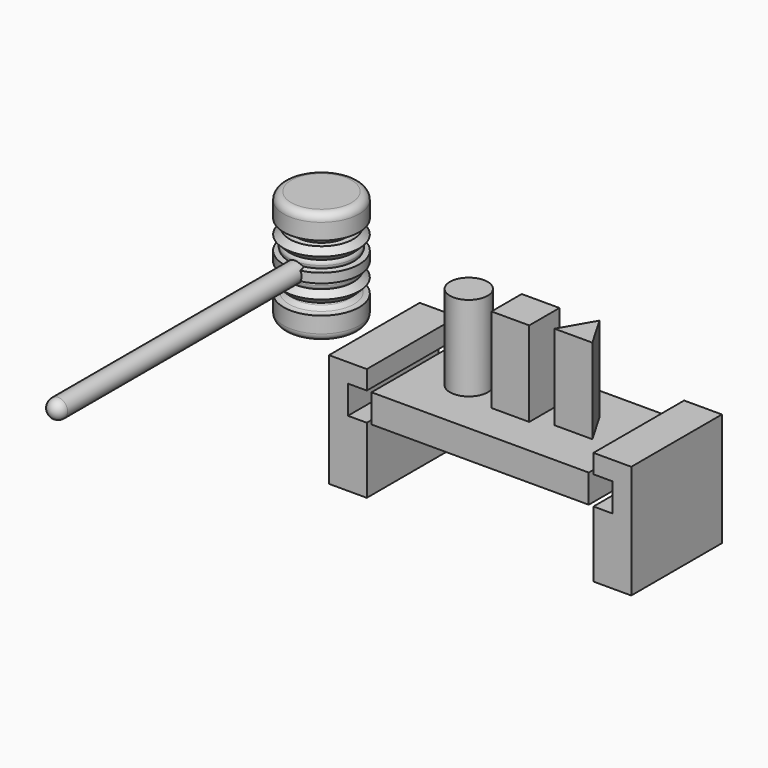
from build123d import *

# Parameters (mm, degrees)
F0_W      = 25.4
F0_H      = 25.4
F1_DEPTH  = 76.2
F2_DEPTH  = 76.2
F0_R      = 12.7
F3_DEPTH  = 76.2
F4_W      = 146.05
F4_H      = 76.2
F4_R      = 12.7
F4_W_2    = 25.4
F4_H_2    = 25.4
F5_DEPTH  = 19.05
F7_DEPTH  = 76.2
F12_D     = 12.7
F12_DEPTH = 25.401
F13_R     = 5.08


with BuildPart() as f1:
    # F0 (on Top) → F1 (new body)
    with BuildSketch(Plane.XY):
        Rectangle(F0_W, F0_H)
    extrude(amount=F1_DEPTH)


with BuildPart() as f2:
    # F0 (on Top) → F2 (new body)
    with BuildSketch(Plane.XY):
        Polygon((50.8, -7.3323484187), (38.1, 14.6646968374), (25.4, -7.3323484187), align=None)
    extrude(amount=F2_DEPTH)


with BuildPart() as f3:
    # F0 (on Top) → F3 (new body)
    with BuildSketch(Plane.XY):
        with Locations((-38.1, 0)):
            Circle(F0_R)
    extrude(amount=F3_DEPTH)


with BuildPart() as f5:
    # F4 (on Top) → F5 (new body)
    with BuildSketch(Plane.XY):
        Rectangle(F4_W, F4_H)
        with Locations((-38.1, 0)):
            Circle(F4_R, mode=Mode.SUBTRACT)
        Rectangle(F4_W_2, F4_H_2, mode=Mode.SUBTRACT)
        Polygon((25.4, -7.3323484187), (38.1, 14.6646968374), (50.8, -7.3323484187), align=None, mode=Mode.SUBTRACT)
    extrude(amount=F5_DEPTH)


with BuildPart() as f7:
    # F6 (on Front) → F7 (new body)
    with BuildSketch(Plane.XZ):
        Polygon((0, 76.2), (0, 0), (25.4, 0), (25.4, 44.45), (12.7, 44.45), (12.7, 63.5), (25.4, 63.5), (25.4, 76.2), align=None)
    extrude(amount=F7_DEPTH)


with BuildPart() as f7_1:
    # F8: moved
    add(f7.part.moved(Location((-101.6, 38.1, -44.45))))


with BuildPart() as f9_1:
    # F9: instance of F7
    add(f7_1.part.mirror(Plane.YZ))


with BuildPart() as f11:
    # F10 (on Front) → F11 (revolve)
    with BuildSketch(Plane.XZ):
        with BuildLine():
            Line((0, 76.2), (0, 0))
            Line((0, 0), (25.4, 0))
            Line((25.4, 0), (25.4, 15.875))
            ThreePointArc((25.4, 15.875), (23.5885759772, 16.0488306608), (21.8432687072, 16.5639778457))
            ThreePointArc((21.8432687072, 16.5639778457), (15.9707310729, 15.9707310729), (16.5639778457, 21.8432687072))
            ThreePointArc((16.5639778457, 21.8432687072), (15.875, 25.4), (16.5639778457, 28.9567312928))
            ThreePointArc((16.5639778457, 28.9567312928), (15.9707310729, 34.8292689271), (21.8432687072, 34.2360221543))
            ThreePointArc((21.8432687072, 34.2360221543), (23.5885759772, 34.7511693392), (25.4, 34.925))
            Line((25.4, 34.925), (25.4, 41.275))
            ThreePointArc((25.4, 41.275), (23.5885759772, 41.4488306608), (21.8432687072, 41.9639778457))
            ThreePointArc((21.8432687072, 41.9639778457), (15.9707310729, 41.3707310729), (16.5639778457, 47.2432687072))
            ThreePointArc((16.5639778457, 47.2432687072), (15.875, 50.8), (16.5639778457, 54.3567312928))
            ThreePointArc((16.5639778457, 54.3567312928), (15.9707310729, 60.2292689271), (21.8432687072, 59.6360221543))
            ThreePointArc((21.8432687072, 59.6360221543), (23.5885759772, 60.1511693392), (25.4, 60.325))
            Line((25.4, 60.325), (25.4, 76.2))
            Line((25.4, 76.2), (0, 76.2))
        make_face()
        with BuildLine():
            ThreePointArc((18.6648079092, 57.5351920908), (20.1479248413, 58.746151995), (21.8432687072, 59.6360221543))
            ThreePointArc((21.8432687072, 59.6360221543), (15.9707310729, 60.2292689271), (16.5639778457, 54.3567312928))
            ThreePointArc((16.5639778457, 54.3567312928), (17.453848005, 56.0520751587), (18.6648079092, 57.5351920908))
        make_face()
        with BuildLine():
            Line((21.3588847455, 46.7588847455), (25.4, 50.8))
            Line((25.4, 50.8), (21.3588847455, 54.8411152545))
            ThreePointArc((21.3588847455, 54.8411152545), (19.0477470544, 53.7444853479), (16.5639778457, 54.3567312928))
            ThreePointArc((16.5639778457, 54.3567312928), (15.875, 50.8), (16.5639778457, 47.2432687072))
            ThreePointArc((16.5639778457, 47.2432687072), (19.0477470544, 47.8555146521), (21.3588847455, 46.7588847455))
        make_face()
        with BuildLine():
            ThreePointArc((16.5639778457, 47.2432687072), (15.9707310729, 41.3707310729), (21.8432687072, 41.9639778457))
            ThreePointArc((21.8432687072, 41.9639778457), (20.1479248413, 42.853848005), (18.6648079092, 44.0648079092))
            ThreePointArc((18.6648079092, 44.0648079092), (17.453848005, 45.5479248413), (16.5639778457, 47.2432687072))
        make_face()
        with BuildLine():
            Line((18.6648079092, 44.0648079092), (21.3588847455, 46.7588847455))
            ThreePointArc((21.3588847455, 46.7588847455), (19.0477470544, 47.8555146521), (16.5639778457, 47.2432687072))
            ThreePointArc((16.5639778457, 47.2432687072), (17.453848005, 45.5479248413), (18.6648079092, 44.0648079092))
        make_face()
        with BuildLine():
            ThreePointArc((22.4748079092, 44.0648079092), (22.1847889281, 45.5228317865), (21.3588847455, 46.7588847455))
            Line((21.3588847455, 46.7588847455), (18.6648079092, 44.0648079092))
            ThreePointArc((18.6648079092, 44.0648079092), (20.1479248413, 42.853848005), (21.8432687072, 41.9639778457))
            ThreePointArc((21.8432687072, 41.9639778457), (22.3135087492, 42.9679568802), (22.4748079092, 44.0648079092))
        make_face()
        with BuildLine():
            ThreePointArc((18.6648079092, 32.1351920908), (20.1479248413, 33.346151995), (21.8432687072, 34.2360221543))
            ThreePointArc((21.8432687072, 34.2360221543), (15.9707310729, 34.8292689271), (16.5639778457, 28.9567312928))
            ThreePointArc((16.5639778457, 28.9567312928), (17.453848005, 30.6520751587), (18.6648079092, 32.1351920908))
        make_face()
        with BuildLine():
            ThreePointArc((16.5639778457, 28.9567312928), (19.0477470544, 28.3444853479), (21.3588847455, 29.4411152545))
            Line((21.3588847455, 29.4411152545), (18.6648079092, 32.1351920908))
            ThreePointArc((18.6648079092, 32.1351920908), (17.453848005, 30.6520751587), (16.5639778457, 28.9567312928))
        make_face()
        with BuildLine():
            Line((18.6648079092, 32.1351920908), (21.3588847455, 29.4411152545))
            ThreePointArc((21.3588847455, 29.4411152545), (22.1847889281, 30.6771682135), (22.4748079092, 32.1351920908))
            ThreePointArc((22.4748079092, 32.1351920908), (22.3135087492, 33.2320431198), (21.8432687072, 34.2360221543))
            ThreePointArc((21.8432687072, 34.2360221543), (20.1479248413, 33.346151995), (18.6648079092, 32.1351920908))
        make_face()
        with BuildLine():
            Line((21.3588847455, 21.3588847455), (25.4, 25.4))
            Line((25.4, 25.4), (21.3588847455, 29.4411152545))
            ThreePointArc((21.3588847455, 29.4411152545), (19.0477470544, 28.3444853479), (16.5639778457, 28.9567312928))
            ThreePointArc((16.5639778457, 28.9567312928), (15.875, 25.4), (16.5639778457, 21.8432687072))
            ThreePointArc((16.5639778457, 21.8432687072), (19.0477470544, 22.4555146521), (21.3588847455, 21.3588847455))
        make_face()
        with BuildLine():
            ThreePointArc((16.5639778457, 21.8432687072), (15.9707310729, 15.9707310729), (21.8432687072, 16.5639778457))
            ThreePointArc((21.8432687072, 16.5639778457), (20.1479248413, 17.453848005), (18.6648079092, 18.6648079092))
            ThreePointArc((18.6648079092, 18.6648079092), (17.453848005, 20.1479248413), (16.5639778457, 21.8432687072))
        make_face()
    revolve(axis=Axis((0, 0, 38.1), (0, 0, 1)))

    # F12 (through all, one way)
    with BuildSketch(Plane(origin=(0, 0, 0), x_dir=(1, 0, 0), z_dir=(0, 1, 0))):
        with Locations((0, -38.1)):
            Circle(F12_D / 2)
    extrude(amount=-F12_DEPTH, mode=Mode.SUBTRACT)

    # F13
    f13_edges = [f11.edges().sort_by_distance(p)[0] for p in [
        (-25.4, 0, 76.2),
        (-25.4, 0, 0),
    ]]
    fillet(f13_edges, radius=F13_R)


with BuildPart() as f15:
    # F14 (on Right) → F15 (revolve)
    with BuildSketch(Plane.YZ):
        with BuildLine():
            Line((26.3524984395, 31.6139267921), (26.3524984395, 37.9639267921))
            Line((26.3524984395, 37.9639267921), (-227.6475015605, 37.9639267921))
            ThreePointArc((-227.6475015604, 37.9639267921), (-225.787629621, 33.4737987316), (-221.2975015605, 31.6139267921))
            Line((-221.2975015605, 31.6139267921), (26.3524984395, 31.6139267921))
        make_face()
    revolve(axis=Axis((0, -100.6475015605, 37.9639267921), (0, 1, 0)))


with BuildPart() as f11_1:
    # F16: moved
    add(f11.part.moved(Location((-76.2, -76.2, 76.2))))


with BuildPart() as f15_1:
    # F16: moved
    add(f15.part.moved(Location((-76.2, -76.2, 76.2))))


solid = Compound([f1.part, f2.part, f3.part, f5.part, f7_1.part, f9_1.part, f11_1.part, f15_1.part])
